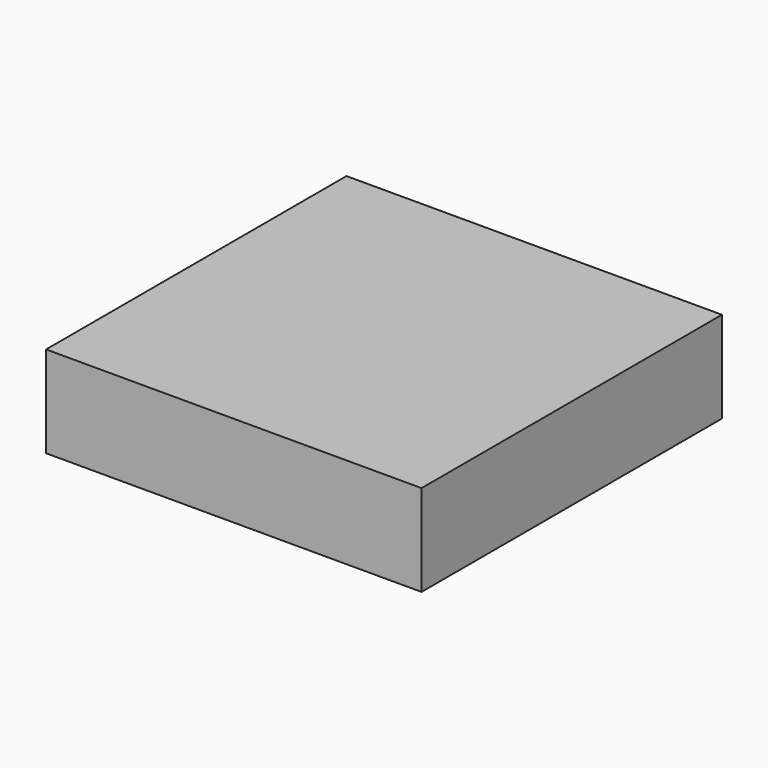
from build123d import *

# Parameters (mm, degrees)
F0_W     = 57.5
F0_H     = 57.5
F0_W_2   = 51.5
F0_H_2   = 51.5
F1_DEPTH = 12
F2_W     = 57.5
F2_H     = 57.5
F3_DEPTH = 2


with BuildPart() as f1:
    # F0 (on Top) → F1 (new body)
    with BuildSketch(Plane.XY):
        with Locations((-5.623506, 3.377934)):
            Rectangle(F0_W, F0_H)
        with Locations((-5.623506, 3.377934)):
            Rectangle(F0_W_2, F0_H_2, mode=Mode.SUBTRACT)
    extrude(amount=F1_DEPTH)

    # F2 (on face) → F3 (join)
    with BuildSketch(Plane.XY.offset(12)):
        with Locations((-5.623506, 3.377934)):
            Rectangle(F2_W, F2_H)
    extrude(amount=F3_DEPTH)


solid = f1.part
